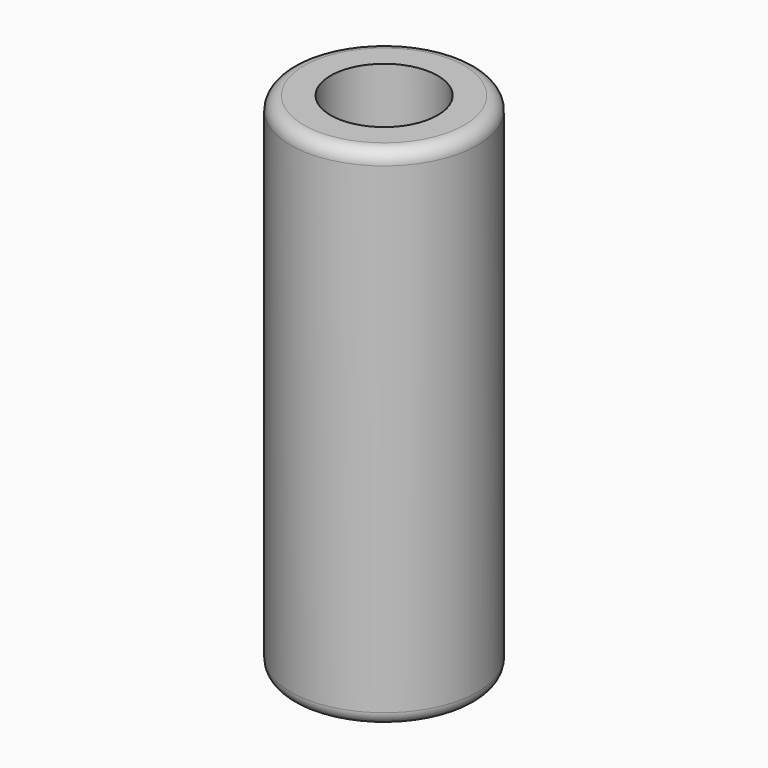
from build123d import *

# Parameters (mm, degrees)
F0_R     = 10.5
F1_DEPTH = 57
F2_R     = 6.01
F3_DEPTH = 57.001
F4_R     = 1.5


with BuildPart() as f1:
    # F0 (on Top) → F1 (new body)
    with BuildSketch(Plane.XY):
        Circle(F0_R)
    extrude(amount=F1_DEPTH)

    # F2 (on face) → F3 (cut, through all)
    with BuildSketch(Plane.XY.offset(57)):
        Circle(F2_R)
    extrude(amount=-F3_DEPTH, mode=Mode.SUBTRACT)

    # F4
    f4_edges = [f1.edges().sort_by_distance(p)[0] for p in [
        (-10.5, 0, 57),
        (-10.5, 0, 0),
    ]]
    fillet(f4_edges, radius=F4_R)


solid = f1.part
